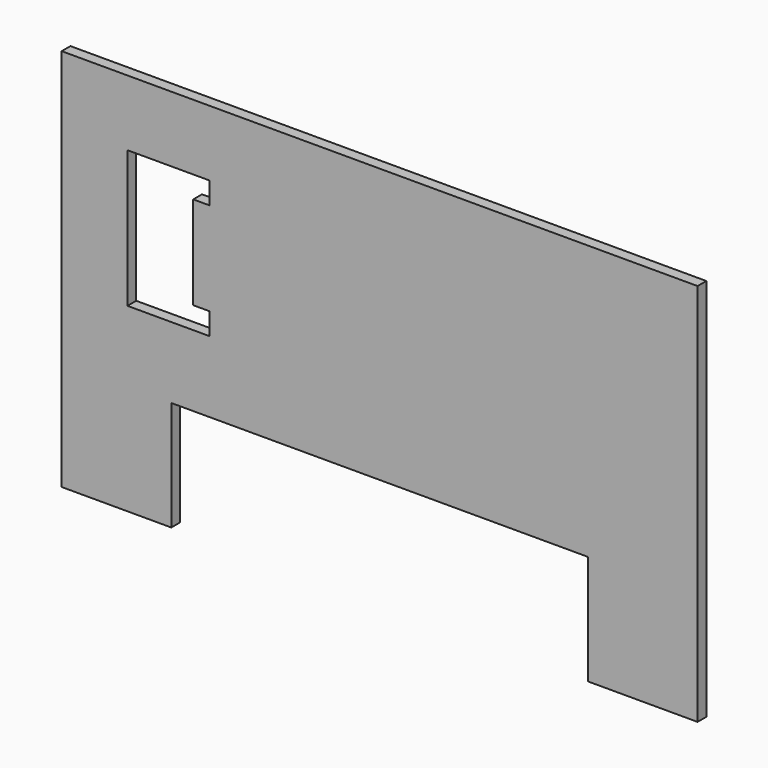
from build123d import *

# Parameters (mm, degrees)
F1_DEPTH = 2
F3_DEPTH = 2.001


with BuildPart() as f1:
    # F0 (on Front) → F1 (new body)
    with BuildSketch(Plane.XZ):
        Polygon((-20, 0), (0, 0), (0, 70), (-116, 70), (-116, 0), (-96, 0), (-96, 20), (-20, 20), align=None)
    extrude(amount=F1_DEPTH)

    # F2 (on face) → F3 (cut, through all)
    with BuildSketch(Plane.XZ.offset(2)):
        Polygon((-89, 58), (-104, 58), (-104, 33), (-89, 33), (-89, 37), (-92, 37), (-92, 54), (-89, 54), align=None)
    extrude(amount=-F3_DEPTH, mode=Mode.SUBTRACT)


solid = f1.part
